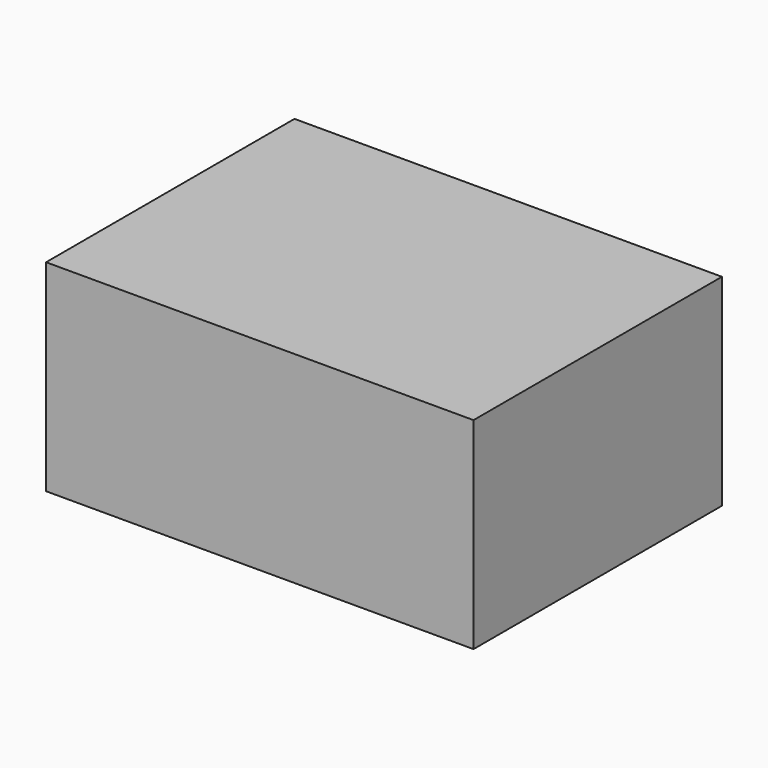
from build123d import *

# Parameters (mm, degrees)
SKETCH_W  = 106
SKETCH_H  = 77
PAD_DEPTH = 50


with BuildPart() as part:
    # Sketch → Pad (new body)
    with BuildSketch(Plane.XY):
        Rectangle(SKETCH_W, SKETCH_H)
    extrude(amount=PAD_DEPTH)


solid = part.part
